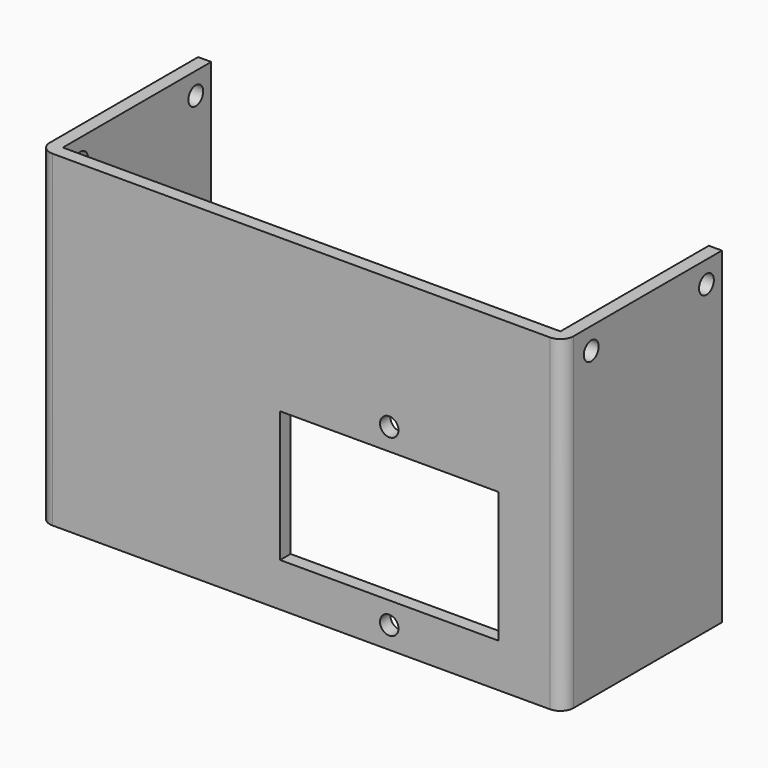
from build123d import *

# Parameters (mm, degrees)
F1_DEPTH = 75
F2_R     = 2.125
F2_W     = 50
F2_H     = 30
F3_DEPTH = 5
F5_R     = 2.125
F6_DEPTH = 130
F7_R     = 3


with BuildPart() as f1:
    # F0 (on Top) → F1 (new body)
    with BuildSketch(Plane.XY):
        Polygon((-28.58369, -11.800445), (-28.58369, 30.699555), (-30.356892, 30.699555), (-31.58369, 30.699555), (-31.58369, -14.800445), (-27.58369, -14.800445), (84.41631, -14.800445), (88.41631, -14.800445), (88.41631, 30.699555), (87.189512, 30.699555), (85.41631, 30.699555), (85.41631, -11.800445), align=None)
    extrude(amount=F1_DEPTH)

    # F2 (on face) → F3 (cut)
    with BuildSketch(Plane.XZ.offset(14.800445)):
        with Locations((48.598289, 45)):
            Circle(F2_R)
        with Locations((48.598289, 5)):
            Circle(F2_R)
        with Locations((48.598289, 25)):
            Rectangle(F2_W, F2_H)
    extrude(amount=-F3_DEPTH, mode=Mode.SUBTRACT)

    # F5 (on face) → F6 (cut)
    with BuildSketch(Plane.YZ.offset(88.41631)):
        with Locations((-6.730337, 70)):
            Circle(F5_R)
        with Locations((26.269663, 70)):
            Circle(F5_R)
    extrude(amount=-F6_DEPTH, mode=Mode.SUBTRACT)

    # F7
    f7_edges = [f1.edges().sort_by_distance(p)[0] for p in [
        (88.41631, -14.800445, 37.5),
        (-31.58369, -14.800445, 37.5),
    ]]
    fillet(f7_edges, radius=F7_R)


solid = f1.part
